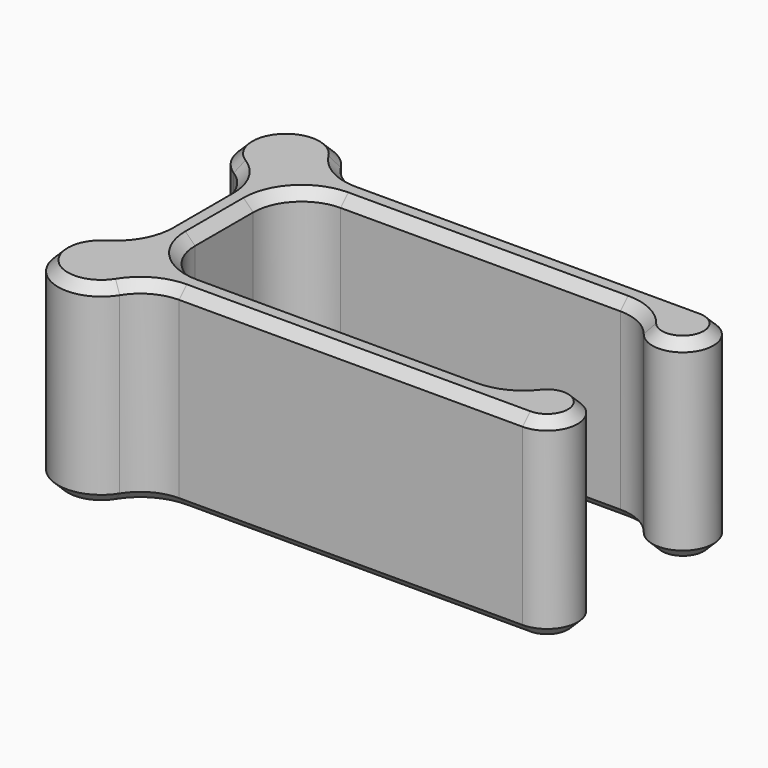
from build123d import *

# Parameters (mm, degrees)
F1_DEPTH = 25.4
F2_SIZE  = 1.27


with BuildPart() as f1:
    # F0 (on Top) → F1 (new body)
    with BuildSketch(Plane.XY):
        with BuildLine():
            ThreePointArc((-69.19944, 18.047227), (-73.689569, 19.907098), (-75.54944, 24.397227))
            Line((-75.54944, 24.397227), (-75.54944, 33.922227))
            ThreePointArc((-75.54944, 33.922227), (-73.689569, 38.412355), (-69.19944, 40.272227))
            Line((-69.19944, 40.272227), (-32.523775, 40.272227))
            ThreePointArc((-32.523775, 40.272227), (-29.732398, 39.625797), (-27.509345, 37.81812))
            ThreePointArc((-27.509345, 37.81812), (-20.757849, 38.513879), (-24.350649, 44.272227))
            Line((-24.350649, 44.272227), (-69.359149, 44.272227))
            ThreePointArc((-69.359149, 44.272227), (-72.441141, 45.070306), (-74.748433, 47.263936))
            ThreePointArc((-74.748433, 47.263936), (-83.54944, 48.272227), (-82.54115, 39.471219))
            ThreePointArc((-82.54115, 39.471219), (-80.34752, 37.163927), (-79.54944, 34.081935))
            Line((-79.54944, 34.081935), (-79.54944, 24.237518))
            ThreePointArc((-79.54944, 24.237518), (-80.34752, 21.155526), (-82.54115, 18.848234))
            ThreePointArc((-82.54115, 18.848234), (-83.54944, 10.047227), (-74.748433, 11.055517))
            ThreePointArc((-74.748433, 11.055517), (-72.441141, 13.249147), (-69.359149, 14.047227))
            Line((-69.359149, 14.047227), (-24.350649, 14.047227))
            ThreePointArc((-24.350649, 14.047227), (-20.757849, 19.805574), (-27.509345, 20.501333))
            ThreePointArc((-27.509345, 20.501333), (-29.732398, 18.693656), (-32.523775, 18.047227))
            Line((-32.523775, 18.047227), (-69.19944, 18.047227))
        make_face()
    extrude(amount=F1_DEPTH)

    # F2
    f2_edges = [f1.edges().sort_by_distance(p)[0] for p in [
        (-79.54944, 29.159727, 25.4),
        (-80.34752, 21.155526, 25.4),
        (-50.861608, 40.272227, 25.4),
        (-46.854899, 44.272227, 25.4),
        (-50.861608, 18.047227, 25.4),
        (-83.54944, 10.047227, 25.4),
        (-83.54944, 48.272227, 0),
        (-83.54944, 10.047227, 0),
        (-79.54944, 29.159727, 0),
        (-82.54115, 39.471219, 12.7),
        (-80.34752, 21.155526, 0),
        (-24.350649, 44.272227, 12.7),
        (-29.732398, 18.693656, 25.4),
        (-20.757849, 19.805574, 25.4),
        (-83.54944, 48.272227, 25.4),
        (-79.54944, 24.237518, 12.7),
        (-79.54944, 34.081935, 12.7),
        (-75.54944, 29.159727, 25.4),
        (-82.54115, 18.848234, 12.7),
        (-73.689569, 38.412355, 25.4),
        (-46.854899, 14.047227, 25.4),
        (-32.523775, 18.047227, 12.7),
        (-80.34752, 37.163927, 25.4),
        (-72.441141, 45.070306, 25.4),
        (-73.689569, 19.907098, 25.4),
        (-72.441141, 45.070306, 0),
        (-46.854899, 44.272227, 0),
        (-72.441141, 13.249147, 25.4),
        (-29.732398, 18.693656, 0),
        (-20.757849, 19.805574, 0),
        (-20.757849, 38.513879, 0),
        (-75.54944, 29.159727, 0),
        (-73.689569, 38.412355, 0),
        (-27.509345, 37.81812, 12.7),
        (-69.19944, 18.047227, 12.7),
        (-24.350649, 14.047227, 12.7),
        (-69.359149, 14.047227, 12.7),
        (-75.54944, 24.397227, 12.7),
        (-75.54944, 33.922227, 12.7),
        (-74.748433, 47.263936, 12.7),
        (-69.359149, 44.272227, 12.7),
        (-80.34752, 37.163927, 0),
        (-32.523775, 40.272227, 12.7),
        (-69.19944, 40.272227, 12.7),
        (-73.689569, 19.907098, 0),
        (-50.861608, 18.047227, 0),
        (-29.732398, 39.625797, 25.4),
        (-20.757849, 38.513879, 25.4),
        (-74.748433, 11.055517, 12.7),
        (-27.509345, 20.501333, 12.7),
        (-29.732398, 39.625797, 0),
        (-46.854899, 14.047227, 0),
        (-72.441141, 13.249147, 0),
        (-50.861608, 40.272227, 0),
    ]]
    chamfer(f2_edges, length=F2_SIZE)


solid = f1.part
